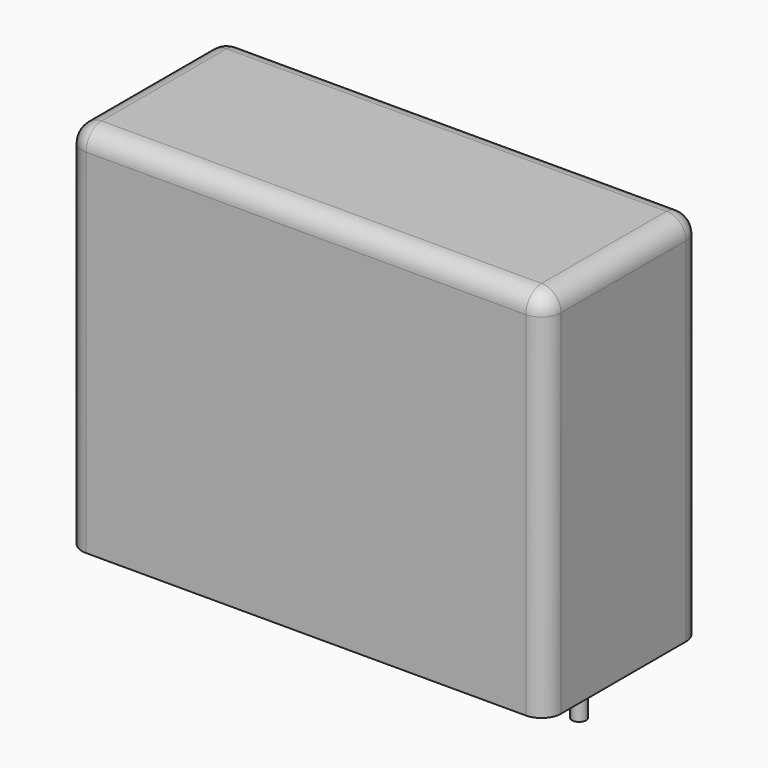
from build123d import *

# Parameters (mm, degrees)
SKETCH_W     = 27
SKETCH_H     = 11
PAD_DEPTH    = 21
FILLET_R     = 1.1
SKETCH001_R  = 0.4
PAD001_DEPTH = 3.2


with BuildPart() as fillet_body:
    # Sketch → Pad (new body)
    with BuildSketch(Plane.XY.offset(0.1)):
        with Locations((11, 0)):
            Rectangle(SKETCH_W, SKETCH_H)
    extrude(amount=PAD_DEPTH)

    # Fillet
    fillet_edges = [fillet_body.edges().sort_by_distance(p)[0] for p in [
        (-2.5, 0, 21.1),
        (-2.5, -5.5, 10.6),
        (11, -5.5, 21.1),
        (24.5, -5.5, 10.6),
        (24.5, 0, 21.1),
        (24.5, 5.5, 10.6),
        (11, 5.5, 21.1),
        (-2.5, 5.5, 10.6),
    ]]
    fillet(fillet_edges, radius=FILLET_R)


with BuildPart() as pad001:
    # Sketch001 → Pad001 (new body)
    with BuildSketch(Plane.XY.offset(0.5)):
        Circle(SKETCH001_R)
        with Locations((22, 0)):
            Circle(SKETCH001_R)
    extrude(amount=-PAD001_DEPTH)


solid = Compound([fillet_body.part, pad001.part])
